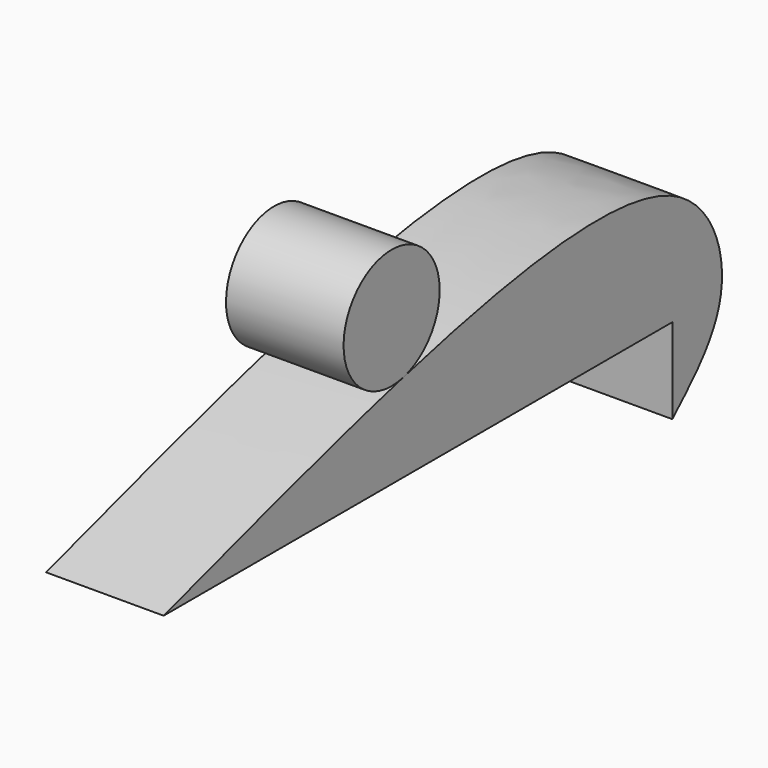
from build123d import *

# Parameters (mm, degrees)
F1_DEPTH = 25.4


with BuildPart() as f1:
    # F0 (on Right) → F1 (new body)
    with BuildSketch(Plane.YZ):
        with BuildLine():
            ThreePointArc((-62.8138756842, 31.6238140479), (-86.040473753, 39.5821181051), (-72.5751516627, 19.0517853674))
            ThreePointArc((-72.5751516627, 19.0517853674), (-65.540689283, 23.6655099906), (-62.8138756842, 31.6238140479))
        make_face()
    extrude(amount=F1_DEPTH)


with BuildPart() as f1b:
    # F0 (on Right) → F1, piece 2 (new body)
    with BuildSketch(Plane.YZ):
        with BuildLine():
            Line((-137.3635530472, 0), (0, 0))
            Line((0, 0), (0, -18.4522196651))
            add(Edge.make_bspline(
                [(-72.5751516627, 19.0517853674), (-41.129977007, 27.0942238326), (4.9676671648, 33.7227569234), (18.3033239725, -1.5009866519), (5.9052848096, -12.9831661222), (0, -18.4522196651)],
                knots=[0.212311344, 0.212311344, 0.212311344, 0.212311344, 0.541649679, 0.7816840911, 1, 1, 1, 1], degree=3))
            add(Edge.make_bspline(
                [(-137.3635530472, 0), (-115.1050799378, 6.9335723587), (-92.8466068284, 13.8671447173), (-72.5751516627, 19.0517853674)],
                knots=[0, 0, 0, 0, 0.212311344, 0.212311344, 0.212311344, 0.212311344], degree=3))
        make_face()
    extrude(amount=F1_DEPTH)


solid = Compound([f1.part, f1b.part])
